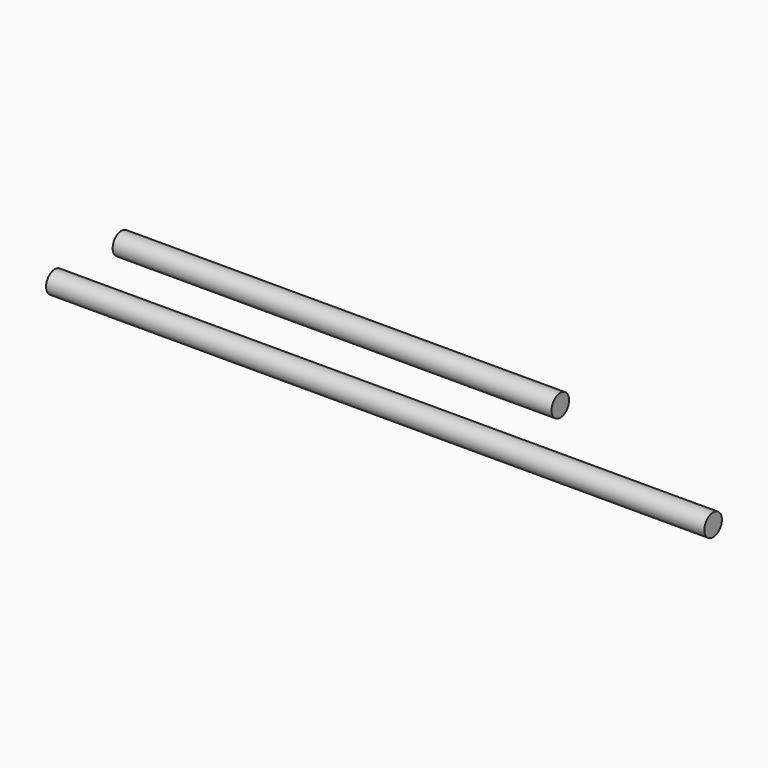
from build123d import *

# Parameters (mm, degrees)
F0_R     = 7.5
F1_DEPTH = 300
F2_R     = 7.5
F3_DEPTH = 450


with BuildPart() as f1:
    # F0 (on Right) → F1 (new body)
    with BuildSketch(Plane.YZ):
        Circle(F0_R)
    extrude(amount=F1_DEPTH)


with BuildPart() as f3:
    # F2 (on Right) → F3 (new body)
    with BuildSketch(Plane.YZ):
        with Locations((-56.900255, 0)):
            Circle(F2_R)
    extrude(amount=F3_DEPTH)


solid = Compound([f1.part, f3.part])
